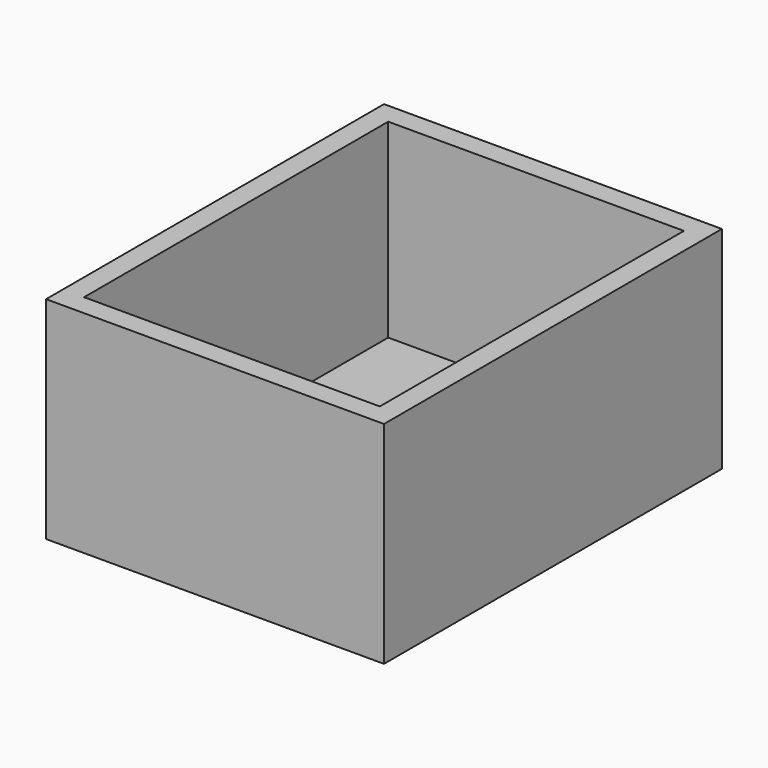
from build123d import *

# Parameters (mm, degrees)
F0_W     = 400
F0_H     = 500
F1_DEPTH = 250
F2_T     = -25
F3_W     = 59.44657
F3_H     = 26.272267
F4_DEPTH = 4
F5_R     = 5
F6_R     = 7.658555
F7_DEPTH = 25


with BuildPart() as f1:
    # F0 (on Top) → F1 (new body)
    with BuildSketch(Plane.XY):
        with Locations((1.677677, 15.239688)):
            Rectangle(F0_W, F0_H)
    extrude(amount=F1_DEPTH)

    # F2
    f2_openings = [f1.faces().sort_by_distance(p)[0] for p in [
        (1.677677, 15.239688, 250),
    ]]
    offset(amount=F2_T, openings=f2_openings)

    # F3 (on face) → F4 (join)
    with BuildSketch(Plane.XY.offset(25)):
        with Locations((-203.045608, 174.877093)):
            Rectangle(F3_W, F3_H)
    extrude(amount=F4_DEPTH)

    # F5
    f5_edges = [f1.edges().sort_by_distance(p)[0] for p in [
        (-232.768893, 161.740959, 27),
        (-232.768893, 188.013226, 27),
    ]]
    fillet(f5_edges, radius=F5_R)

    # F6 (on face) → F7 (cut)
    with BuildSketch(Plane.XY.offset(29)):
        with Locations((-219.607025, 174.877092)):
            Circle(F6_R)
    extrude(amount=-F7_DEPTH, mode=Mode.SUBTRACT)


solid = f1.part
